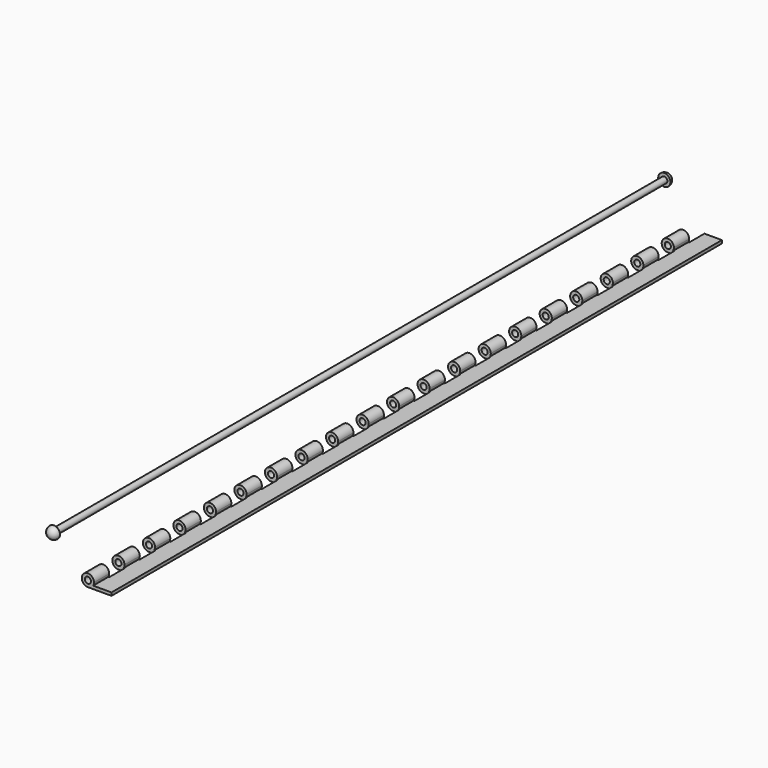
from build123d import *

# Parameters (mm, degrees)
F0_R     = 2.54
F1_DEPTH = 635
F2_W     = 12.7
F2_H     = 15.875
F3_DEPTH = 127
F4_W     = 2.54
F4_H     = 635


with BuildPart() as f1:
    # F0 (on Front) → F1 (new body)
    with BuildSketch(Plane.XZ):
        with BuildLine():
            ThreePointArc((-12.6226157889, 52.3021817207), (-12.1151216426, 53.5273809716), (-11.9420248401, 54.8421817207))
            ThreePointArc((-11.9420248401, 54.8421817207), (-20.6141272885, 58.4342841692), (-17.0220248401, 49.7621817207))
            ThreePointArc((-17.0220248401, 49.7621817207), (-14.4820248401, 50.4427726695), (-12.6226157889, 52.3021817207))
        make_face()
        with Locations((-17.0220248401, 54.8421817207)):
            Circle(F0_R, mode=Mode.SUBTRACT)
        with BuildLine():
            ThreePointArc((-12.6226157889, 52.3021817207), (-14.4820248401, 50.4427726695), (-17.0220248401, 49.7621817207))
            Line((-17.0220248401, 49.7621817207), (2.6173842111, 49.7621817207))
            Line((2.6173842111, 49.7621817207), (2.6173842111, 52.3021817207))
            Line((2.6173842111, 52.3021817207), (-12.6226157889, 52.3021817207))
        make_face()
    extrude(amount=F1_DEPTH)

    # F2 (on Top) → F3 (cut)
    with BuildSketch(Plane.XY):
        with Locations((-18.2868157889, -7.9375)):
            Rectangle(F2_W, F2_H)
        with Locations((-18.2868157889, -39.6875)):
            Rectangle(F2_W, F2_H)
        with Locations((-18.2868157889, -71.4375)):
            Rectangle(F2_W, F2_H)
        with Locations((-18.2868157889, -103.1875)):
            Rectangle(F2_W, F2_H)
        with Locations((-18.2868157889, -134.9375)):
            Rectangle(F2_W, F2_H)
        with Locations((-18.2868157889, -166.6875)):
            Rectangle(F2_W, F2_H)
        with Locations((-18.2868157889, -198.4375)):
            Rectangle(F2_W, F2_H)
        with Locations((-18.2868157889, -230.1875)):
            Rectangle(F2_W, F2_H)
        with Locations((-18.2868157889, -261.9375)):
            Rectangle(F2_W, F2_H)
        with Locations((-18.2868157889, -293.6875)):
            Rectangle(F2_W, F2_H)
        with Locations((-18.2868157889, -325.4375)):
            Rectangle(F2_W, F2_H)
        with Locations((-18.2868157889, -357.1875)):
            Rectangle(F2_W, F2_H)
        with Locations((-18.2868157889, -388.9375)):
            Rectangle(F2_W, F2_H)
        with Locations((-18.2868157889, -420.6875)):
            Rectangle(F2_W, F2_H)
        with Locations((-18.2868157889, -452.4375)):
            Rectangle(F2_W, F2_H)
        with Locations((-18.2868157889, -484.1875)):
            Rectangle(F2_W, F2_H)
        with Locations((-18.2868157889, -515.9375)):
            Rectangle(F2_W, F2_H)
        with Locations((-18.2868157889, -547.6875)):
            Rectangle(F2_W, F2_H)
        with Locations((-18.2868157889, -579.4375)):
            Rectangle(F2_W, F2_H)
        with Locations((-18.2868157889, -611.1875)):
            Rectangle(F2_W, F2_H)
    extrude(amount=F3_DEPTH, mode=Mode.SUBTRACT)


with BuildPart() as f5:
    # F4 (on Top) → F5 (revolve)
    with BuildSketch(Plane.XY):
        with BuildLine():
            Line((-142.2525869989, 126.2385049661), (-142.2525869989, 121.1585049661))
            Line((-142.2525869989, 121.1585049661), (-139.7125869989, 121.1585049661))
            Line((-139.7125869989, 121.1585049661), (-137.1725869989, 121.1585049661))
            ThreePointArc((-137.1725869989, 121.1585049661), (-138.6604845505, 124.7506074146), (-142.2525869989, 126.2385049661))
        make_face()
        with Locations((-140.9825869989, -196.3414950339)):
            Rectangle(F4_W, F4_H)
        with BuildLine():
            Line((-139.7125869989, -513.8414950339), (-142.2525869989, -513.8414950339))
            Line((-142.2525869989, -513.8414950339), (-142.2525869989, -518.9214950339))
            ThreePointArc((-142.2525869989, -518.9214950339), (-138.6604845505, -517.4335974823), (-137.1725869989, -513.8414950339))
            Line((-137.1725869989, -513.8414950339), (-139.7125869989, -513.8414950339))
        make_face()
    revolve(axis=Axis((-142.2525869989, -196.3414950339, 0), (0, 1, 0)))


solid = Compound([f1.part, f5.part])
